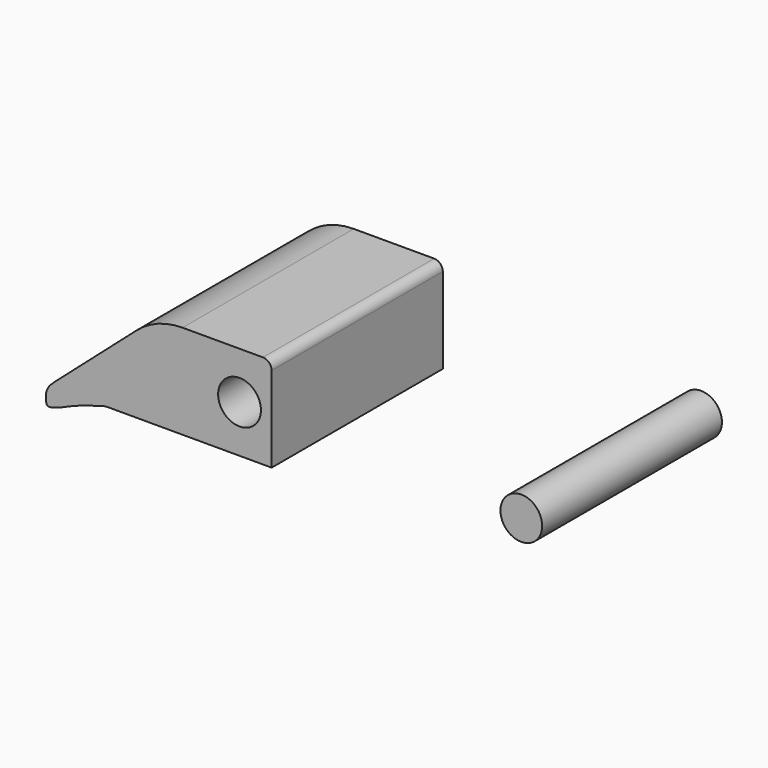
from build123d import *

# Parameters (mm, degrees)
F1_DEPTH = 100
F2_R     = 10
F3_DEPTH = 200
F4_R     = 9.75
F5_DEPTH = 105


with BuildPart() as f1:
    # F0 (on Front) → F1 (new body)
    with BuildSketch(Plane.XZ):
        with BuildLine():
            Line((-1287.3642943979, -512.4181020195), (-1324.9364355903, -512.4181020195))
            ThreePointArc((-1324.9364355903, -512.4181020195), (-1336.394290745, -514.5047762171), (-1346.3808651818, -520.496853067))
            Line((-1346.3808651818, -520.496853067), (-1383.6805482123, -553.2489948482))
            ThreePointArc((-1383.6805482123, -553.2489948482), (-1384.9797824248, -554.4250767245), (-1386.2428762738, -555.6398903098))
            Line((-1386.2428762738, -555.6398903098), (-1387.0836972932, -556.4733992374))
            Line((-1387.0836972932, -556.4733992374), (-1360.9400987625, -556.4733992374))
            Line((-1360.9400987625, -556.4733992374), (-1283.3089971801, -556.4733992374))
            Line((-1283.3089971801, -556.4733992374), (-1283.3089971801, -516.4733992374))
            ThreePointArc((-1283.3089971801, -516.4733992374), (-1284.4967662355, -513.6058710749), (-1287.3642943979, -512.4181020195))
        make_face()
        with BuildLine():
            add(Edge.make_bspline(
                [(-1387.0836972932, -556.4733992374), (-1387.6599327637, -557.4008498398), (-1388.7610327475, -559.1730695237), (-1388.6798929257, -561.5553628145), (-1388.7877901056, -565.5831243314), (-1385.6390637514, -565.097373418), (-1380.6190888609, -563.4220024101), (-1373.6143452981, -559.9114625079), (-1365.5237906543, -557.7167885538), (-1360.9400987625, -556.4733992374)],
                knots=[0, 0, 0, 0, 0.1136746916, 0.2172153702, 0.334156119, 0.4316588403, 0.5808442599, 0.762527929, 1, 1, 1, 1], degree=3))
            Line((-1360.9400987625, -556.4733992374), (-1387.0836972932, -556.4733992374))
        make_face()
    extrude(amount=F1_DEPTH)

    # F2 (on face) → F3 (cut)
    with BuildSketch(Plane.XZ.offset(100)):
        with Locations((-1298.3089971801, -534.4181020195)):
            Circle(F2_R)
    extrude(amount=-F3_DEPTH, mode=Mode.SUBTRACT)


with BuildPart() as f5:
    # F4 (on Front) → F5 (new body)
    with BuildSketch(Plane.XZ):
        with Locations((-1162.6422676173, -535.9904806722)):
            Circle(F4_R)
    extrude(amount=F5_DEPTH)


solid = Compound([f1.part, f5.part])
